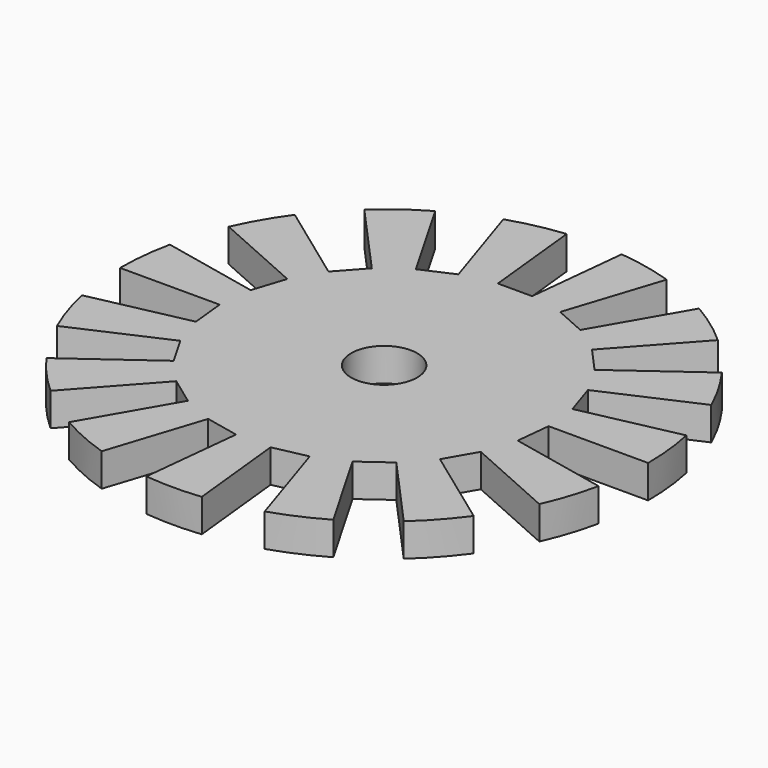
from build123d import *

# Parameters (mm, degrees)
SKETCH_R           = 12
SKETCH_R_2         = 1.5
PAD_DEPTH          = 1.5
POCKET_DEPTH       = 5
POLARPATTERN_COUNT = 15


with BuildPart() as part:
    # Sketch → Pad (new body)
    with BuildSketch(Plane.XY):
        Circle(SKETCH_R)
        Circle(SKETCH_R_2, mode=Mode.SUBTRACT)
    extrude(amount=PAD_DEPTH)

    # Sketch001 → Pocket (cut)
    with BuildSketch(Plane.XY.offset(1.5)):
        with BuildLine():
            ThreePointArc((1.25, 11.934718), (0, 12), (-1.25, 11.934718))
            Line((-1.25, 11.934718), (-0.778686, 7.434718))
            Line((-0.778686, 7.434718), (0.778686, 7.434718))
            Line((0.778686, 7.434718), (1.25, 11.934718))
        make_face()
    pocket = extrude(amount=-POCKET_DEPTH, mode=Mode.SUBTRACT)

    # PolarPattern: Pocket ×15 about axis
    polarpattern_axis = Axis((0, 0, 1.5), (0, 0, 1))
    for i in range(1, POLARPATTERN_COUNT):
        add(pocket.rotate(polarpattern_axis, i * 360 / POLARPATTERN_COUNT), mode=Mode.SUBTRACT)


solid = part.part
